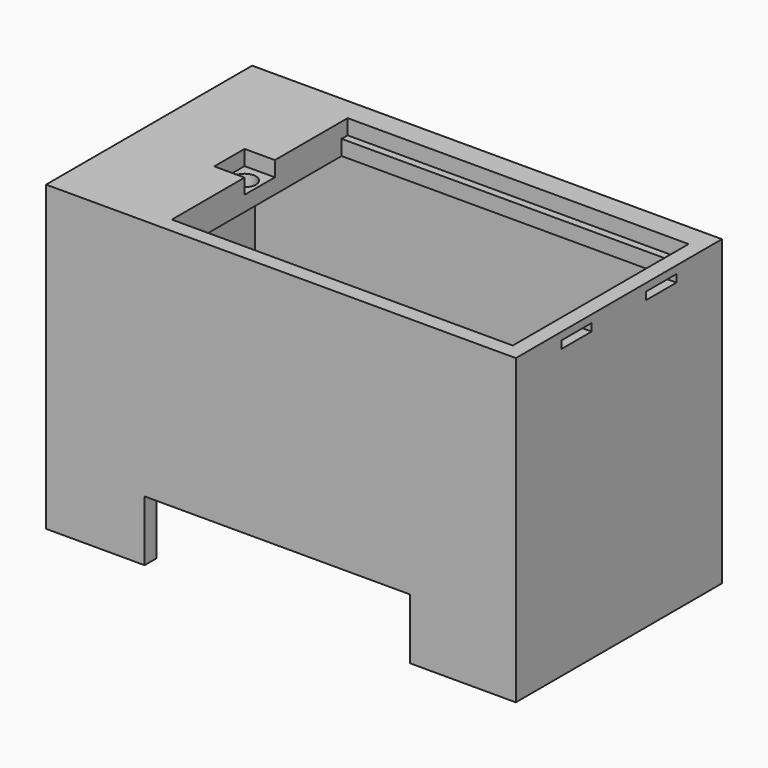
from build123d import *

# Parameters (mm, degrees)
SKETCH_W        = 62
SKETCH_H        = 34
PAD_DEPTH       = 40
SKETCH001_W     = 58
SKETCH001_H     = 30
POCKET_DEPTH    = 36
SKETCH002_W     = 45
SKETCH002_H     = 27
POCKET001_DEPTH = 5
POCKET002_DEPTH = 2
SKETCH004_R     = 1.5
POCKET003_DEPTH = 5
SKETCH005_W     = 5
SKETCH005_H     = 1
POCKET004_DEPTH = 5
SKETCH006_W     = 6
SKETCH006_H     = 2.5
PAD001_DEPTH    = 5
SKETCH007_W     = 6
SKETCH007_H     = 2.5
PAD002_DEPTH    = 5
SKETCH008_W     = 14
SKETCH008_H     = 8
POCKET005_DEPTH = 5
SKETCH009_W     = 35
SKETCH009_H     = 8
POCKET006_DEPTH = 5


with BuildPart() as part:
    # Sketch → Pad (new body)
    with BuildSketch(Plane.XY.offset(16)):
        with Locations((0, 12)):
            Rectangle(SKETCH_W, SKETCH_H)
    extrude(amount=PAD_DEPTH)

    # Sketch001 (on Face5 of Pad) → Pocket (cut)
    with BuildSketch(Plane(origin=(0, 0, 16), x_dir=(1, 0, 0), z_dir=(0, 0, -1))):
        with Locations((0, -12)):
            Rectangle(SKETCH001_W, SKETCH001_H)
    extrude(amount=-POCKET_DEPTH, mode=Mode.SUBTRACT)

    # Sketch002 (on Face5 of Pocket) → Pocket001 (cut)
    with BuildSketch(Plane.XY.offset(56)):
        with Locations((6.5, 11.5)):
            Rectangle(SKETCH002_W, SKETCH002_H)
    extrude(amount=-POCKET001_DEPTH, mode=Mode.SUBTRACT)

    # Sketch003 (on Face5 of Pocket001) → Pocket002 (cut)
    with BuildSketch(Plane.XY.offset(56)):
        Polygon((-16, 26), (29, 26), (29, -3), (-16, -3), (-16, 9), (-20, 9), (-20, 14), (-16, 14), align=None)
    extrude(amount=-POCKET002_DEPTH, mode=Mode.SUBTRACT)

    # Sketch004 (on Face29 of Pocket002) → Pocket003 (cut)
    with BuildSketch(Plane.XY.offset(54)):
        with Locations((-18, 11.5)):
            Circle(SKETCH004_R)
    extrude(amount=-POCKET003_DEPTH, mode=Mode.SUBTRACT)

    # Sketch005 (on Face14 of Pocket003) → Pocket004 (cut)
    with BuildSketch(Plane(origin=(29, 0, 0), x_dir=(0, -1, 0), z_dir=(-1, 0, 0))):
        with Locations((-19, 54.5)):
            Rectangle(SKETCH005_W, SKETCH005_H)
        with Locations((-5, 54.5)):
            Rectangle(SKETCH005_W, SKETCH005_H)
    extrude(amount=-POCKET004_DEPTH, mode=Mode.SUBTRACT)

    # Sketch006 (on Face18 of Pocket004) → Pad001 (join)
    with BuildSketch(Plane.XZ.offset(-27)):
        with Locations((-22, 31.25)):
            Rectangle(SKETCH006_W, SKETCH006_H)
        with Locations((22, 31.25)):
            Rectangle(SKETCH006_W, SKETCH006_H)
    extrude(amount=PAD001_DEPTH)

    # Sketch007 (on Face16 of Pad001) → Pad002 (join)
    with BuildSketch(Plane(origin=(0, -3, 0), x_dir=(-1, 0, 0), z_dir=(0, 1, 0))):
        with Locations((-22, 31.25)):
            Rectangle(SKETCH007_W, SKETCH007_H)
        with Locations((22, 31.25)):
            Rectangle(SKETCH007_W, SKETCH007_H)
    extrude(amount=PAD002_DEPTH)

    # Sketch008 (on Face2 of Pad002) → Pocket005 (cut)
    with BuildSketch(Plane(origin=(-31, 0, 0), x_dir=(0, -1, 0), z_dir=(-1, 0, 0))):
        with Locations((-7, 20)):
            Rectangle(SKETCH008_W, SKETCH008_H)
    extrude(amount=-POCKET005_DEPTH, mode=Mode.SUBTRACT)

    # Sketch009 (on Face9 of Pocket005) → Pocket006 (cut)
    with BuildSketch(Plane.XZ.offset(5)):
        with Locations((-0.5, 20)):
            Rectangle(SKETCH009_W, SKETCH009_H)
    extrude(amount=-POCKET006_DEPTH, mode=Mode.SUBTRACT)


with BuildPart() as part_1:
    # Body placement: moved
    add(part.part.moved(Location((0, 0, -36.5))))


solid = part_1.part
